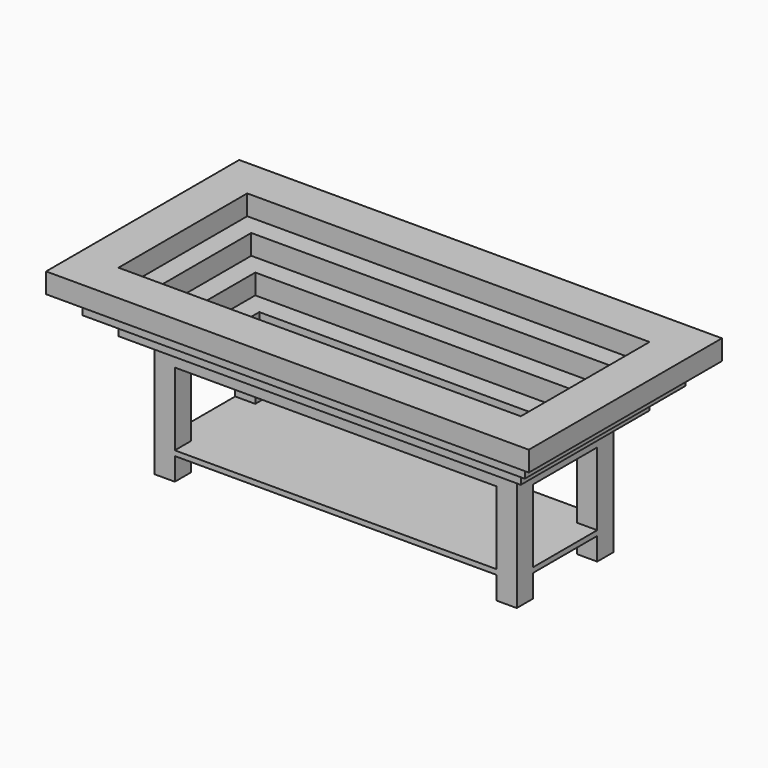
from build123d import *

# Parameters (mm, degrees)
F0_W      = 1219.2
F0_H      = 609.6
F0_W_2    = 1015.999996
F0_H_2    = 406.399996
F1_DEPTH  = 50.8
F2_W      = 1117.6
F2_H      = 508
F2_W_2    = 914.400004
F2_H_2    = 304.800004
F3_DEPTH  = 50.8
F4_W      = 1016
F4_H      = 406.4
F4_W_2    = 812.799998
F4_H_2    = 203.199998
F5_DEPTH  = 50.8
F6_W      = 914.4
F6_H      = 304.8
F6_W_2    = 711.199998
F6_H_2    = 101.599998
F7_DEPTH  = 50.8
F8_W      = 914.4
F8_H      = 304.8
F9_DEPTH  = 6.35
F10_W     = 50.8
F10_H     = 50.8
F11_DEPTH = 254
F13_W     = 914.4
F13_H     = 304.8
F14_DEPTH = 12.7


with BuildPart() as f1:
    # F0 (on Top) → F1 (new body)
    with BuildSketch(Plane.XY):
        Rectangle(F0_W, F0_H)
        Rectangle(F0_W_2, F0_H_2, mode=Mode.SUBTRACT)
    extrude(amount=F1_DEPTH)

    # F2 (on face) → F3 (join)
    with BuildSketch(Plane(origin=(0, 0, 0), x_dir=(1, 0, 0), z_dir=(0, 0, -1))):
        Rectangle(F2_W, F2_H)
        Rectangle(F2_W_2, F2_H_2, mode=Mode.SUBTRACT)
    extrude(amount=F3_DEPTH)

    # F4 (on face) → F5 (join)
    with BuildSketch(Plane(origin=(0, 0, -50.8), x_dir=(1, 0, 0), z_dir=(0, 0, -1))):
        Rectangle(F4_W, F4_H)
        Rectangle(F4_W_2, F4_H_2, mode=Mode.SUBTRACT)
    extrude(amount=F5_DEPTH)

    # F6 (on face) → F7 (join)
    with BuildSketch(Plane(origin=(0, 0, -101.6), x_dir=(1, 0, 0), z_dir=(0, 0, -1))):
        Rectangle(F6_W, F6_H)
        Rectangle(F6_W_2, F6_H_2, mode=Mode.SUBTRACT)
    extrude(amount=F7_DEPTH)

    # F8 (on face) → F9 (join)
    with BuildSketch(Plane(origin=(0, 0, -152.4), x_dir=(1, 0, 0), z_dir=(0, 0, -1))):
        Rectangle(F8_W, F8_H)
    extrude(amount=F9_DEPTH)

    # F10 (on face) → F11 (join)
    with BuildSketch(Plane(origin=(0, 0, -158.75), x_dir=(1, 0, 0), z_dir=(0, 0, -1))):
        with Locations((-431.8, 127)):
            Rectangle(F10_W, F10_H)
        with Locations((-431.8, -127)):
            Rectangle(F10_W, F10_H)
        with Locations((431.8, 127)):
            Rectangle(F10_W, F10_H)
        with Locations((431.8, -127)):
            Rectangle(F10_W, F10_H)
    extrude(amount=F11_DEPTH)

    # F13 (on offset) → F14 (join)
    with BuildSketch(Plane.XY.offset(-355.6)):
        Rectangle(F13_W, F13_H)
    extrude(amount=F14_DEPTH)


solid = f1.part
